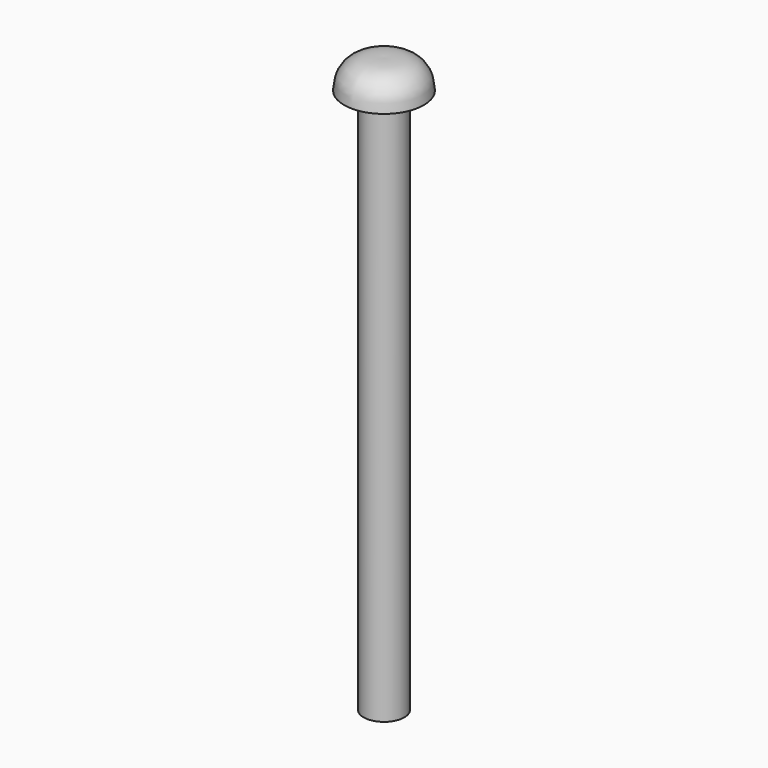
from build123d import *

# Parameters (mm, degrees)
F0_R     = 1.4224
F1_DEPTH = 38.1


with BuildPart() as f1:
    # F0 (on Top) → F1 (new body)
    with BuildSketch(Plane.XY):
        Circle(F0_R)
    extrude(amount=-F1_DEPTH)

    # F2 (on Right) → F3 (revolve)
    with BuildSketch(Plane.YZ):
        with BuildLine():
            add(Edge.make_bspline(
                [(-2.7813, 0), (-2.721535, 2.091008), (-1.061825, 2.0638), (0, 2.032)],
                knots=[0, 0, 0, 0, 3.444511, 3.444511, 3.444511, 3.444511], degree=3))
            Line((-2.7813, 0), (0, 0))
            Line((0, 0), (0, 2.032))
        make_face()
    revolve(axis=Axis((0, 0, 1.016), (0, 0, 1)))


solid = f1.part
